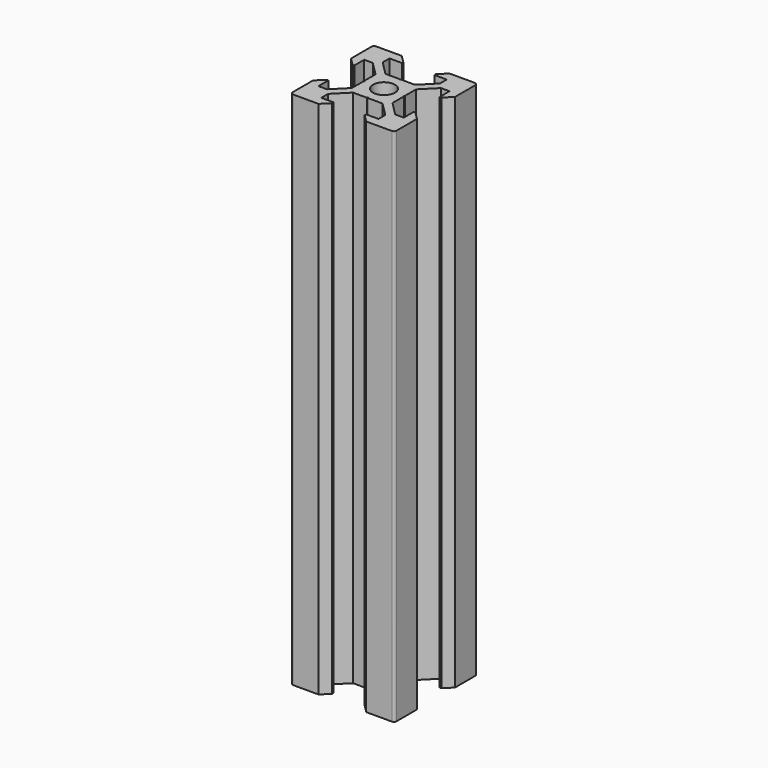
from build123d import *

# Parameters (mm, degrees)
SKETCH_R  = 2.1
PAD_DEPTH = 100


with BuildPart() as part:
    # Sketch → Pad (new body)
    with BuildSketch(Plane.XY):
        with BuildLine():
            Line((-10, 4.58), (-10, 9.5))
            ThreePointArc((-9.5, 10), (-9.853553, 9.853553), (-10, 9.5))
            Line((-9.5, 10), (-4.58, 10))
            Line((-4.58, 10), (-3.125, 8.545))
            Line((-3.125, 8.545), (-3.125, 8.2))
            Line((-5.5, 8.2), (-3.125, 8.2))
            Line((-5.5, 8.2), (-5.5, 6.56066))
            Line((-5.5, 6.56066), (-2.83934, 3.9))
            Line((-0.125, 3.9), (-2.83934, 3.9))
            ThreePointArc((-0.125, 3.9), (0, 3.775), (0.125, 3.9))
            Line((0.125, 3.9), (2.83934, 3.9))
            Line((2.83934, 3.9), (5.5, 6.56066))
            Line((5.5, 6.56066), (5.5, 8.2))
            Line((5.5, 8.2), (3.125, 8.2))
            Line((3.125, 8.2), (3.125, 8.545))
            Line((3.125, 8.545), (4.58, 10))
            Line((4.58, 10), (9.5, 10))
            ThreePointArc((10, 9.5), (9.853553, 9.853553), (9.5, 10))
            Line((10, 9.5), (10, 4.58))
            Line((10, 4.58), (8.545, 3.125))
            Line((8.545, 3.125), (8.2, 3.125))
            Line((8.2, 3.125), (8.2, 5.5))
            Line((8.2, 5.5), (6.56066, 5.5))
            Line((6.56066, 5.5), (3.9, 2.83934))
            Line((3.9, 2.83934), (3.9, 0.125))
            ThreePointArc((3.9, 0.125), (3.775, 0), (3.9, -0.125))
            Line((3.9, -0.125), (3.9, -2.83934))
            Line((3.9, -2.83934), (6.56066, -5.5))
            Line((6.56066, -5.5), (8.2, -5.5))
            Line((8.2, -5.5), (8.2, -3.125))
            Line((8.2, -3.125), (8.545, -3.125))
            Line((8.545, -3.125), (10, -4.58))
            Line((10, -4.58), (10, -9.5))
            ThreePointArc((9.5, -10), (9.853553, -9.853553), (10, -9.5))
            Line((9.5, -10), (4.58, -10))
            Line((4.58, -10), (3.125, -8.545))
            Line((3.125, -8.545), (3.125, -8.2))
            Line((3.125, -8.2), (5.5, -8.2))
            Line((5.5, -8.2), (5.5, -6.56066))
            Line((2.83934, -3.9), (5.5, -6.56066))
            Line((0.125, -3.9), (2.83934, -3.9))
            ThreePointArc((0.125, -3.9), (0, -3.775), (-0.125, -3.9))
            Line((-0.125, -3.9), (-2.83934, -3.9))
            Line((-2.83934, -3.9), (-5.5, -6.56066))
            Line((-5.5, -6.56066), (-5.5, -8.2))
            Line((-5.5, -8.2), (-3.125, -8.2))
            Line((-3.125, -8.545), (-3.125, -8.2))
            Line((-4.58, -10), (-3.125, -8.545))
            Line((-9.5, -10), (-4.58, -10))
            ThreePointArc((-10, -9.5), (-9.853553, -9.853553), (-9.5, -10))
            Line((-10, -4.58), (-10, -9.5))
            Line((-8.545, -3.125), (-10, -4.58))
            Line((-8.2, -3.125), (-8.545, -3.125))
            Line((-8.2, -5.5), (-8.2, -3.125))
            Line((-6.56066, -5.5), (-8.2, -5.5))
            Line((-3.9, -2.83934), (-6.56066, -5.5))
            Line((-3.9, -0.125), (-3.9, -2.83934))
            ThreePointArc((-3.9, -0.125), (-3.775, 0), (-3.9, 0.125))
            Line((-3.9, 2.83934), (-3.9, 0.125))
            Line((-6.56066, 5.5), (-3.9, 2.83934))
            Line((-8.2, 5.5), (-6.56066, 5.5))
            Line((-8.2, 5.5), (-8.2, 3.125))
            Line((-8.545, 3.125), (-8.2, 3.125))
            Line((-10, 4.58), (-8.545, 3.125))
        make_face()
        Circle(SKETCH_R, mode=Mode.SUBTRACT)
    extrude(amount=PAD_DEPTH)


solid = part.part
